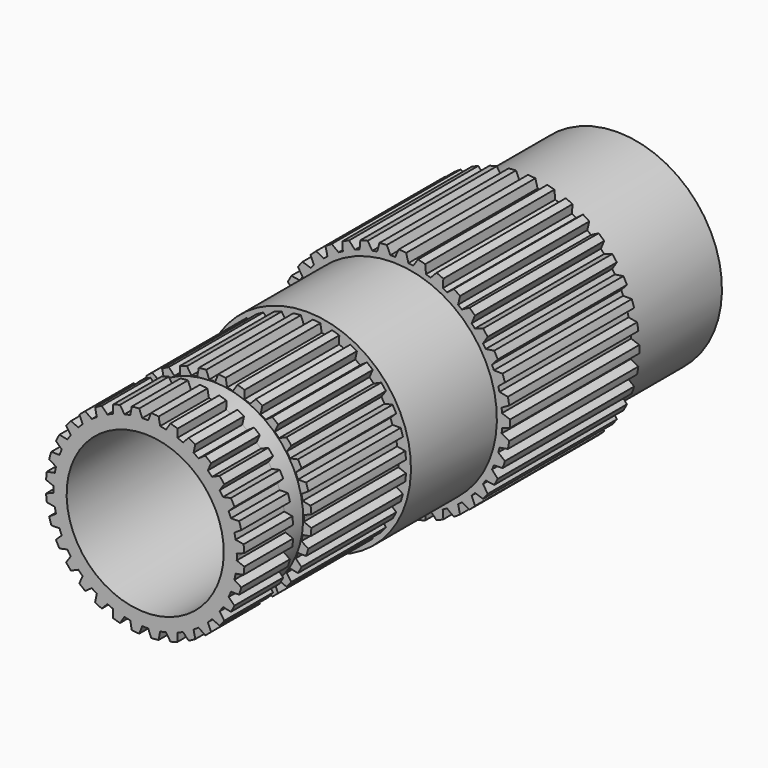
from build123d import *

# Parameters (mm, degrees)
F3_DEPTH = 42.545
F5_DEPTH = 53.2384


with BuildPart() as f1:
    # F0 (on Right) → F1 (revolve)
    with BuildSketch(Plane.YZ):
        Polygon((80.6360800648, 21.7805), (83.8110800648, 23.495), (83.8110800648, 27.4955), (52.3150800648, 27.4955), (52.3150800648, 30.9245), (9.7700800648, 30.9245), (9.7700800648, 27.432), (-18.5255199352, 27.432), (-18.5255199352, 26.162), (-49.6913199352, 26.162), (-49.6913199352, 23.9649), (-55.7111199352, 23.9649), (-55.7111199352, 26.162), (-71.7639199352, 26.162), (-71.7639199352, 20.701), (-5.0889199352, 20.701), (-5.0889199352, 18.161), (10.7860800648, 18.161), (10.7860800648, 20.701), (20.3110800648, 20.701), (20.3110800648, 17.4625), (56.7706339061, 17.4625), (62.2210800648, 21.7805), align=None)
    revolve(axis=Axis((0, 41.9055400324, 0), (0, 1, 0)))

    # F2 (on face) → F3 (cut, through all)
    with BuildSketch(Plane(origin=(0, 52.3150800648, 0), x_dir=(-1, 0, 0), z_dir=(0, 1, 0))):
        with BuildLine():
            ThreePointArc((-0.635, 28.8220057595), (-0.317519259, 28.8272513868), (0, 28.829))
            Line((0, 28.829), (0, 30.9245))
            ThreePointArc((0, 30.9245), (-0.7876555313, 30.914467471), (-1.5748, 30.8843763934))
            Line((-1.5748, 30.8843763934), (-0.635, 28.8220057595))
        make_face()
        with BuildLine():
            Line((0, 30.9245), (0, 28.829))
            ThreePointArc((0, 28.829), (0.317519259, 28.8272513868), (0.635, 28.8220057595))
            Line((0.635, 28.8220057595), (0.635, 30.9179798054))
            ThreePointArc((0.635, 30.9179798054), (0.3175167369, 30.9228699084), (0, 30.9245))
        make_face()
        with BuildLine():
            Line((0.635, 30.9179798054), (0.635, 28.8220057595))
            Line((0.635, 28.8220057595), (1.5748, 30.8843763934))
            ThreePointArc((1.5748, 30.8843763934), (1.1050277405, 30.9047506695), (0.635, 30.9179798054))
        make_face()
        with BuildLine():
            Line((3.530079498, 30.722357315), (4.1176068014, 28.5334287324))
            ThreePointArc((4.1176068014, 28.5334287324), (4.7450974432, 28.4358100158), (5.3702856567, 28.3243936028))
            Line((5.3702856567, 28.3243936028), (6.6367230591, 30.2039501934))
            ThreePointArc((6.6367230591, 30.2039501934), (5.0900054071, 30.5027301271), (3.530079498, 30.722357315))
        make_face()
        with BuildLine():
            Line((8.5386676294, 29.7223124162), (8.757896023, 27.4665341507))
            ThreePointArc((8.757896023, 27.4665341507), (9.3607609977, 27.266965261), (9.95908392, 27.0541658248))
            Line((9.95908392, 27.0541658248), (11.5176136139, 28.699638968))
            ThreePointArc((11.5176136139, 28.699638968), (10.0411687354, 29.248925291), (8.5386676294, 29.7223124162))
        make_face()
        with BuildLine():
            Line((13.3143431666, 27.9115203149), (13.1592926713, 25.6504241172))
            ThreePointArc((13.1592926713, 25.6504241172), (13.7210873939, 25.3543487735), (14.2762243353, 25.045970928))
            Line((14.2762243353, 25.045970928), (16.0843336934, 26.4124764058))
            ThreePointArc((16.0843336934, 26.4124764058), (14.718435156, 27.1972860192), (13.3143431666, 27.9115203149))
        make_face()
        with BuildLine():
            Line((17.7268381301, 25.3393746994), (17.2017381192, 23.1346373794))
            ThreePointArc((17.2017381192, 23.1346373794), (17.7071382941, 22.7501317454), (18.2039465662, 22.3545872343))
            Line((18.2039465662, 22.3545872343), (20.2123150785, 23.4048503395))
            ThreePointArc((20.2123150785, 23.4048503395), (18.9942210336, 24.4037756828), (17.7268381301, 25.3393746994))
        make_face()
        with BuildLine():
            Line((21.6557911599, 22.0760369969), (20.7749649928, 19.9877980415))
            ThreePointArc((20.7749649928, 19.9877980415), (21.2101846208, 19.5253504284), (21.6351125888, 19.0534286749))
            Line((21.6351125888, 19.0534286749), (23.7889571979, 19.7588009679))
            ThreePointArc((23.7889571979, 19.7588009679), (22.7518940756, 20.9445939617), (21.6557911599, 22.0760369969))
        make_face()
        with BuildLine():
            Line((24.9940306592, 18.2105225531), (23.7815049777, 16.2957436772))
            ThreePointArc((23.7815049777, 16.2957436772), (24.1346724018, 15.7679684505), (24.4761291385, 15.2325422498))
            Line((24.4761291385, 15.2325422498), (26.716698578, 15.5737830132))
            ThreePointArc((26.716698578, 15.5737830132), (25.888954757, 16.9140983159), (24.9940306592, 18.2105225531))
        make_face()
        with BuildLine():
            Line((27.6504981567, 13.8482725253), (26.1393475006, 12.1591839053))
            ThreePointArc((26.1393475006, 12.1591839053), (26.4008292341, 11.5804773973), (26.6495006899, 10.9961517805))
            Line((26.6495006899, 10.9961517805), (28.9156780662, 10.9639528557))
            ThreePointArc((28.9156780662, 10.9639528557), (28.3198322401, 12.4222301597), (27.6504981567, 13.8482725253))
        make_face()
        with BuildLine():
            Line((29.552732144, 9.1082777228), (27.7841767638, 7.6909532931))
            ThreePointArc((27.7841767638, 7.6909532931), (27.9468402668, 7.0771011088), (28.0959433325, 6.4598149554))
            Line((28.0959433325, 6.4598149554), (30.3259132343, 6.0550546452))
            ThreePointArc((30.3259132343, 6.0550546452), (29.978218524, 7.5915159471), (29.552732144, 9.1082777228))
        make_face()
        with BuildLine():
            Line((30.6488446366, 4.1198328475), (28.6711261129, 3.0129335239))
            ThreePointArc((28.6711261129, 3.0129335239), (28.7305343489, 2.3806799506), (28.7760018816, 1.7472712178))
            Line((28.7760018816, 1.7472712178), (30.9089365431, 0.9809903283))
            ThreePointArc((30.9089365431, 0.9809903283), (30.818877154, 2.5537249691), (30.6488446366, 4.1198328475))
        make_face()
        with BuildLine():
            Line((30.9089365431, -0.9809903283), (28.7760018816, -1.7472712178))
            ThreePointArc((28.7760018816, -1.7472712178), (28.7305343489, -2.3806799506), (28.6711261129, -3.0129335239))
            Line((28.6711261129, -3.0129335239), (30.6488446366, -4.1198328475))
            ThreePointArc((30.6488446366, -4.1198328475), (30.818877154, -2.5537249691), (30.9089365431, -0.9809903283))
        make_face()
        with BuildLine():
            Line((30.3259132343, -6.0550546452), (28.0959433325, -6.4598149554))
            ThreePointArc((28.0959433325, -6.4598149554), (27.9468402668, -7.0771011088), (27.7841767638, -7.6909532931))
            Line((27.7841767638, -7.6909532931), (29.552732144, -9.1082777228))
            ThreePointArc((29.552732144, -9.1082777228), (29.978218524, -7.5915159471), (30.3259132343, -6.0550546452))
        make_face()
        with BuildLine():
            Line((28.9156780662, -10.9639528557), (26.6495006899, -10.9961517805))
            ThreePointArc((26.6495006899, -10.9961517805), (26.4008292341, -11.5804773973), (26.1393475006, -12.1591839053))
            Line((26.1393475006, -12.1591839053), (27.6504981567, -13.8482725253))
            ThreePointArc((27.6504981567, -13.8482725253), (28.3198322401, -12.4222301597), (28.9156780662, -10.9639528557))
        make_face()
        with BuildLine():
            Line((26.716698578, -15.5737830132), (24.4761291385, -15.2325422498))
            ThreePointArc((24.4761291385, -15.2325422498), (24.1346724018, -15.7679684505), (23.7815049777, -16.2957436772))
            Line((23.7815049777, -16.2957436772), (24.9940306592, -18.2105225531))
            ThreePointArc((24.9940306592, -18.2105225531), (25.888954757, -16.9140983159), (26.716698578, -15.5737830132))
        make_face()
        with BuildLine():
            Line((23.7889571979, -19.7588009679), (21.6351125888, -19.0534286749))
            ThreePointArc((21.6351125888, -19.0534286749), (21.2101846208, -19.5253504284), (20.7749649928, -19.9877980415))
            Line((20.7749649928, -19.9877980415), (21.6557911599, -22.0760369969))
            ThreePointArc((21.6557911599, -22.0760369969), (22.7518940756, -20.9445939617), (23.7889571979, -19.7588009679))
        make_face()
        with BuildLine():
            Line((20.2123150785, -23.4048503395), (18.2039465662, -22.3545872343))
            ThreePointArc((18.2039465662, -22.3545872343), (17.7071382941, -22.7501317454), (17.2017381192, -23.1346373794))
            Line((17.2017381192, -23.1346373794), (17.7268381301, -25.3393746994))
            ThreePointArc((17.7268381301, -25.3393746994), (18.9942210336, -24.4037756828), (20.2123150785, -23.4048503395))
        make_face()
        with BuildLine():
            Line((16.0843336934, -26.4124764058), (14.2762243353, -25.045970928))
            ThreePointArc((14.2762243353, -25.045970928), (13.7210873939, -25.3543487735), (13.1592926713, -25.6504241172))
            Line((13.1592926713, -25.6504241172), (13.3143431666, -27.9115203149))
            ThreePointArc((13.3143431666, -27.9115203149), (14.718435156, -27.1972860192), (16.0843336934, -26.4124764058))
        make_face()
        with BuildLine():
            Line((11.5176136139, -28.699638968), (9.95908392, -27.0541658248))
            ThreePointArc((9.95908392, -27.0541658248), (9.3607609977, -27.266965261), (8.757896023, -27.4665341507))
            Line((8.757896023, -27.4665341507), (8.5386676294, -29.7223124162))
            ThreePointArc((8.5386676294, -29.7223124162), (10.0411687354, -29.248925291), (11.5176136139, -28.699638968))
        make_face()
        with BuildLine():
            Line((6.6367230591, -30.2039501934), (5.3702856567, -28.3243936028))
            ThreePointArc((5.3702856567, -28.3243936028), (4.7450974432, -28.4358100158), (4.1176068014, -28.5334287324))
            Line((4.1176068014, -28.5334287324), (3.530079498, -30.722357315))
            ThreePointArc((3.530079498, -30.722357315), (5.0900054071, -30.5027301271), (6.6367230591, -30.2039501934))
        make_face()
        with BuildLine():
            ThreePointArc((0.635, -28.8220057595), (0, -28.829), (-0.635, -28.8220057595))
            Line((-0.635, -28.8220057595), (-1.5748, -30.8843763934))
            ThreePointArc((-1.5748, -30.8843763934), (0, -30.9245), (1.5748, -30.8843763934))
            Line((1.5748, -30.8843763934), (0.635, -28.8220057595))
        make_face()
        with BuildLine():
            ThreePointArc((-4.1176068014, -28.5334287324), (-4.7450974432, -28.4358100158), (-5.3702856567, -28.3243936028))
            Line((-5.3702856567, -28.3243936028), (-6.6367230591, -30.2039501934))
            ThreePointArc((-6.6367230591, -30.2039501934), (-5.0900054071, -30.5027301271), (-3.530079498, -30.722357315))
            Line((-3.530079498, -30.722357315), (-4.1176068014, -28.5334287324))
        make_face()
        with BuildLine():
            ThreePointArc((-8.757896023, -27.4665341507), (-9.3607609977, -27.266965261), (-9.95908392, -27.0541658248))
            Line((-9.95908392, -27.0541658248), (-11.5176136139, -28.699638968))
            ThreePointArc((-11.5176136139, -28.699638968), (-10.0411687354, -29.248925291), (-8.5386676294, -29.7223124162))
            Line((-8.5386676294, -29.7223124162), (-8.757896023, -27.4665341507))
        make_face()
        with BuildLine():
            ThreePointArc((-13.1592926713, -25.6504241172), (-13.7210873939, -25.3543487735), (-14.2762243353, -25.045970928))
            Line((-14.2762243353, -25.045970928), (-16.0843336934, -26.4124764058))
            ThreePointArc((-16.0843336934, -26.4124764058), (-14.718435156, -27.1972860192), (-13.3143431666, -27.9115203149))
            Line((-13.3143431666, -27.9115203149), (-13.1592926713, -25.6504241172))
        make_face()
        with BuildLine():
            ThreePointArc((-17.2017381192, -23.1346373794), (-17.7071382941, -22.7501317454), (-18.2039465662, -22.3545872343))
            Line((-18.2039465662, -22.3545872343), (-20.2123150785, -23.4048503395))
            ThreePointArc((-20.2123150785, -23.4048503395), (-18.9942210336, -24.4037756828), (-17.7268381301, -25.3393746994))
            Line((-17.7268381301, -25.3393746994), (-17.2017381192, -23.1346373794))
        make_face()
        with BuildLine():
            ThreePointArc((-20.7749649928, -19.9877980415), (-21.2101846208, -19.5253504284), (-21.6351125888, -19.0534286749))
            Line((-21.6351125888, -19.0534286749), (-23.7889571979, -19.7588009679))
            ThreePointArc((-23.7889571979, -19.7588009679), (-22.7518940756, -20.9445939617), (-21.6557911599, -22.0760369969))
            Line((-21.6557911599, -22.0760369969), (-20.7749649928, -19.9877980415))
        make_face()
        with BuildLine():
            ThreePointArc((-23.7815049777, -16.2957436772), (-24.1346724018, -15.7679684505), (-24.4761291385, -15.2325422498))
            Line((-24.4761291385, -15.2325422498), (-26.716698578, -15.5737830132))
            ThreePointArc((-26.716698578, -15.5737830132), (-25.888954757, -16.9140983159), (-24.9940306592, -18.2105225531))
            Line((-24.9940306592, -18.2105225531), (-23.7815049777, -16.2957436772))
        make_face()
        with BuildLine():
            ThreePointArc((-26.1393475006, -12.1591839053), (-26.4008292341, -11.5804773973), (-26.6495006899, -10.9961517805))
            Line((-26.6495006899, -10.9961517805), (-28.9156780662, -10.9639528557))
            ThreePointArc((-28.9156780662, -10.9639528557), (-28.3198322401, -12.4222301597), (-27.6504981567, -13.8482725253))
            Line((-27.6504981567, -13.8482725253), (-26.1393475006, -12.1591839053))
        make_face()
        with BuildLine():
            ThreePointArc((-27.7841767638, -7.6909532931), (-27.9468402668, -7.0771011088), (-28.0959433325, -6.4598149554))
            Line((-28.0959433325, -6.4598149554), (-30.3259132343, -6.0550546452))
            ThreePointArc((-30.3259132343, -6.0550546452), (-29.978218524, -7.5915159471), (-29.552732144, -9.1082777228))
            Line((-29.552732144, -9.1082777228), (-27.7841767638, -7.6909532931))
        make_face()
        with BuildLine():
            ThreePointArc((-28.6711261129, -3.0129335239), (-28.7305343489, -2.3806799506), (-28.7760018816, -1.7472712178))
            Line((-28.7760018816, -1.7472712178), (-30.9089365431, -0.9809903283))
            ThreePointArc((-30.9089365431, -0.9809903283), (-30.818877154, -2.5537249691), (-30.6488446366, -4.1198328475))
            Line((-30.6488446366, -4.1198328475), (-28.6711261129, -3.0129335239))
        make_face()
        with BuildLine():
            ThreePointArc((-28.7760018816, 1.7472712178), (-28.7305343489, 2.3806799506), (-28.6711261129, 3.0129335239))
            Line((-28.6711261129, 3.0129335239), (-30.6488446366, 4.1198328475))
            ThreePointArc((-30.6488446366, 4.1198328475), (-30.818877154, 2.5537249691), (-30.9089365431, 0.9809903283))
            Line((-30.9089365431, 0.9809903283), (-28.7760018816, 1.7472712178))
        make_face()
        with BuildLine():
            ThreePointArc((-28.0959433325, 6.4598149554), (-27.9468402668, 7.0771011088), (-27.7841767638, 7.6909532931))
            Line((-27.7841767638, 7.6909532931), (-29.552732144, 9.1082777228))
            ThreePointArc((-29.552732144, 9.1082777228), (-29.978218524, 7.5915159471), (-30.3259132343, 6.0550546452))
            Line((-30.3259132343, 6.0550546452), (-28.0959433325, 6.4598149554))
        make_face()
        with BuildLine():
            ThreePointArc((-26.6495006899, 10.9961517805), (-26.4008292341, 11.5804773973), (-26.1393475006, 12.1591839053))
            Line((-26.1393475006, 12.1591839053), (-27.6504981567, 13.8482725253))
            ThreePointArc((-27.6504981567, 13.8482725253), (-28.3198322401, 12.4222301597), (-28.9156780662, 10.9639528557))
            Line((-28.9156780662, 10.9639528557), (-26.6495006899, 10.9961517805))
        make_face()
        with BuildLine():
            ThreePointArc((-24.4761291385, 15.2325422498), (-24.1346724018, 15.7679684505), (-23.7815049777, 16.2957436772))
            Line((-23.7815049777, 16.2957436772), (-24.9940306592, 18.2105225531))
            ThreePointArc((-24.9940306592, 18.2105225531), (-25.888954757, 16.9140983159), (-26.716698578, 15.5737830132))
            Line((-26.716698578, 15.5737830132), (-24.4761291385, 15.2325422498))
        make_face()
        with BuildLine():
            ThreePointArc((-21.6351125888, 19.0534286749), (-21.2101846208, 19.5253504284), (-20.7749649928, 19.9877980415))
            Line((-20.7749649928, 19.9877980415), (-21.6557911599, 22.0760369969))
            ThreePointArc((-21.6557911599, 22.0760369969), (-22.7518940756, 20.9445939617), (-23.7889571979, 19.7588009679))
            Line((-23.7889571979, 19.7588009679), (-21.6351125888, 19.0534286749))
        make_face()
        with BuildLine():
            ThreePointArc((-18.2039465662, 22.3545872343), (-17.7071382941, 22.7501317454), (-17.2017381192, 23.1346373794))
            Line((-17.2017381192, 23.1346373794), (-17.7268381301, 25.3393746994))
            ThreePointArc((-17.7268381301, 25.3393746994), (-18.9942210336, 24.4037756828), (-20.2123150785, 23.4048503395))
            Line((-20.2123150785, 23.4048503395), (-18.2039465662, 22.3545872343))
        make_face()
        with BuildLine():
            ThreePointArc((-14.2762243353, 25.045970928), (-13.7210873939, 25.3543487735), (-13.1592926713, 25.6504241172))
            Line((-13.1592926713, 25.6504241172), (-13.3143431666, 27.9115203149))
            ThreePointArc((-13.3143431666, 27.9115203149), (-14.718435156, 27.1972860192), (-16.0843336934, 26.4124764058))
            Line((-16.0843336934, 26.4124764058), (-14.2762243353, 25.045970928))
        make_face()
        with BuildLine():
            ThreePointArc((-9.95908392, 27.0541658248), (-9.3607609977, 27.266965261), (-8.757896023, 27.4665341507))
            Line((-8.757896023, 27.4665341507), (-8.5386676294, 29.7223124162))
            ThreePointArc((-8.5386676294, 29.7223124162), (-10.0411687354, 29.248925291), (-11.5176136139, 28.699638968))
            Line((-11.5176136139, 28.699638968), (-9.95908392, 27.0541658248))
        make_face()
        with BuildLine():
            ThreePointArc((-5.3702856567, 28.3243936028), (-4.7450974432, 28.4358100158), (-4.1176068014, 28.5334287324))
            Line((-4.1176068014, 28.5334287324), (-3.530079498, 30.722357315))
            ThreePointArc((-3.530079498, 30.722357315), (-5.0900054071, 30.5027301271), (-6.6367230591, 30.2039501934))
            Line((-6.6367230591, 30.2039501934), (-5.3702856567, 28.3243936028))
        make_face()
    extrude(amount=-F3_DEPTH, mode=Mode.SUBTRACT)

    # F4 (on face) → F5 (cut, through all)
    with BuildSketch(Plane.XZ.offset(71.7639199352)):
        with BuildLine():
            ThreePointArc((-0.7874, 24.1171495256), (-0.3937524269, 24.1267871675), (0, 24.13))
            Line((0, 24.13), (0, 26.162))
            ThreePointArc((0, 26.162), (-0.7877571936, 26.1501373343), (-1.5748, 26.1145600951))
            Line((-1.5748, 26.1145600951), (-0.7874, 24.1171495256))
        make_face()
        with BuildLine():
            ThreePointArc((0, 24.13), (0.3937524269, 24.1267871675), (0.7874, 24.1171495256))
            Line((0.7874, 24.1171495256), (0.7874, 26.1501480921))
            ThreePointArc((0.7874, 26.1501480921), (0.3937445961, 26.1590368552), (0, 26.162))
            Line((0, 26.162), (0, 24.13))
        make_face()
        with BuildLine():
            Line((0.7874, 26.1501480921), (0.7874, 24.1171495256))
            Line((0.7874, 24.1171495256), (1.5748, 26.1145600951))
            ThreePointArc((1.5748, 26.1145600951), (1.1812340312, 26.1353195918), (0.7874, 26.1501480921))
        make_face()
        with BuildLine():
            ThreePointArc((3.9327521373, 23.8073593795), (4.7075294702, 23.6663488161), (5.4772927968, 23.5001311404))
            Line((5.4772927968, 23.5001311404), (6.6392385978, 25.3055479064))
            ThreePointArc((6.6392385978, 25.3055479064), (5.1039530046, 25.6593045059), (3.5501572787, 25.9200043846))
            Line((3.5501572787, 25.9200043846), (3.9327521373, 23.8073593795))
        make_face()
        with BuildLine():
            ThreePointArc((8.5017708154, 22.5826657639), (9.234151223, 22.2932131195), (9.9566963032, 21.9800158946))
            Line((9.9566963032, 21.9800158946), (11.4485349797, 23.5240577031))
            ThreePointArc((11.4485349797, 23.5240577031), (10.0117639575, 24.1705363296), (8.5386840041, 24.7293574417))
            Line((8.5386840041, 24.7293574417), (8.5017708154, 22.5826657639))
        make_face()
        with BuildLine():
            ThreePointArc((12.744071209, 20.4901329674), (13.4059097228, 20.0633617449), (14.0534695544, 19.6152209644))
            Line((14.0534695544, 19.6152209644), (15.8178705827, 20.8385511548))
            ThreePointArc((15.8178705827, 20.8385511548), (14.5348284363, 21.7529079971), (13.1990738918, 22.5883751607))
            Line((13.1990738918, 22.5883751607), (12.744071209, 20.4901329674))
        make_face()
        with BuildLine():
            ThreePointArc((16.4966240929, 17.6101758519), (17.06248663, 17.06248663), (17.6101758519, 16.4966240929))
            Line((17.6101758519, 16.4966240929), (19.57933429, 17.3522307719))
            ThreePointArc((19.57933429, 17.3522307719), (18.4993276094, 18.4993276094), (17.3522307719, 19.57933429))
            Line((17.3522307719, 19.57933429), (16.4966240929, 17.6101758519))
        make_face()
        with BuildLine():
            ThreePointArc((19.6152209644, 14.0534695544), (20.0633617449, 13.4059097228), (20.4901329674, 12.744071209))
            Line((20.4901329674, 12.744071209), (22.5883751607, 13.1990738918))
            ThreePointArc((22.5883751607, 13.1990738918), (21.7529079971, 14.5348284363), (20.8385511548, 15.8178705827))
            Line((20.8385511548, 15.8178705827), (19.6152209644, 14.0534695544))
        make_face()
        with BuildLine():
            ThreePointArc((21.9800158946, 9.9566963032), (22.2932131195, 9.234151223), (22.5826657639, 8.5017708154))
            Line((22.5826657639, 8.5017708154), (24.7293574417, 8.5386840041))
            ThreePointArc((24.7293574417, 8.5386840041), (24.1705363296, 10.0117639575), (23.5240577031, 11.4485349797))
            Line((23.5240577031, 11.4485349797), (21.9800158946, 9.9566963032))
        make_face()
        with BuildLine():
            ThreePointArc((23.5001311404, 5.4772927968), (23.6663488161, 4.7075294702), (23.8073593795, 3.9327521373))
            Line((23.8073593795, 3.9327521373), (25.9200043846, 3.5501572787))
            ThreePointArc((25.9200043846, 3.5501572787), (25.6593045059, 5.1039530046), (25.3055479064, 6.6392385978))
            Line((25.3055479064, 6.6392385978), (23.5001311404, 5.4772927968))
        make_face()
        with BuildLine():
            ThreePointArc((24.1171495256, 0.7874), (24.1267871675, 0.3937524269), (24.13, 0))
            ThreePointArc((24.13, 0), (24.1267871675, -0.3937524269), (24.1171495256, -0.7874))
            Line((24.1171495256, -0.7874), (26.1145600951, -1.5748))
            ThreePointArc((26.1145600951, -1.5748), (26.1501373343, -0.7877571936), (26.162, 0))
            ThreePointArc((26.162, 0), (26.1501373343, 0.7877571936), (26.1145600951, 1.5748))
            Line((26.1145600951, 1.5748), (24.1171495256, 0.7874))
        make_face()
        with BuildLine():
            Line((25.9200043846, -3.5501572787), (23.8073593795, -3.9327521373))
            ThreePointArc((23.8073593795, -3.9327521373), (23.6663488161, -4.7075294702), (23.5001311404, -5.4772927968))
            Line((23.5001311404, -5.4772927968), (25.3055479064, -6.6392385978))
            ThreePointArc((25.3055479064, -6.6392385978), (25.6593045059, -5.1039530046), (25.9200043846, -3.5501572787))
        make_face()
        with BuildLine():
            Line((24.7293574417, -8.5386840041), (22.5826657639, -8.5017708154))
            ThreePointArc((22.5826657639, -8.5017708154), (22.2932131195, -9.234151223), (21.9800158946, -9.9566963032))
            Line((21.9800158946, -9.9566963032), (23.5240577031, -11.4485349797))
            ThreePointArc((23.5240577031, -11.4485349797), (24.1705363296, -10.0117639575), (24.7293574417, -8.5386840041))
        make_face()
        with BuildLine():
            Line((22.5883751607, -13.1990738918), (20.4901329674, -12.744071209))
            ThreePointArc((20.4901329674, -12.744071209), (20.0633617449, -13.4059097228), (19.6152209644, -14.0534695544))
            Line((19.6152209644, -14.0534695544), (20.8385511548, -15.8178705827))
            ThreePointArc((20.8385511548, -15.8178705827), (21.7529079971, -14.5348284363), (22.5883751607, -13.1990738918))
        make_face()
        with BuildLine():
            Line((19.57933429, -17.3522307719), (17.6101758519, -16.4966240929))
            ThreePointArc((17.6101758519, -16.4966240929), (17.06248663, -17.06248663), (16.4966240929, -17.6101758519))
            Line((16.4966240929, -17.6101758519), (17.3522307719, -19.57933429))
            ThreePointArc((17.3522307719, -19.57933429), (18.4993276094, -18.4993276094), (19.57933429, -17.3522307719))
        make_face()
        with BuildLine():
            Line((15.8178705827, -20.8385511548), (14.0534695544, -19.6152209644))
            ThreePointArc((14.0534695544, -19.6152209644), (13.4059097228, -20.0633617449), (12.744071209, -20.4901329674))
            Line((12.744071209, -20.4901329674), (13.1990738918, -22.5883751607))
            ThreePointArc((13.1990738918, -22.5883751607), (14.5348284363, -21.7529079971), (15.8178705827, -20.8385511548))
        make_face()
        with BuildLine():
            Line((11.4485349797, -23.5240577031), (9.9566963032, -21.9800158946))
            ThreePointArc((9.9566963032, -21.9800158946), (9.234151223, -22.2932131195), (8.5017708154, -22.5826657639))
            Line((8.5017708154, -22.5826657639), (8.5386840041, -24.7293574417))
            ThreePointArc((8.5386840041, -24.7293574417), (10.0117639575, -24.1705363296), (11.4485349797, -23.5240577031))
        make_face()
        with BuildLine():
            Line((6.6392385978, -25.3055479064), (5.4772927968, -23.5001311404))
            ThreePointArc((5.4772927968, -23.5001311404), (4.7075294702, -23.6663488161), (3.9327521373, -23.8073593795))
            Line((3.9327521373, -23.8073593795), (3.5501572787, -25.9200043846))
            ThreePointArc((3.5501572787, -25.9200043846), (5.1039530046, -25.6593045059), (6.6392385978, -25.3055479064))
        make_face()
        with BuildLine():
            Line((1.5748, -26.1145600951), (0.7874, -24.1171495256))
            ThreePointArc((0.7874, -24.1171495256), (0, -24.13), (-0.7874, -24.1171495256))
            Line((-0.7874, -24.1171495256), (-1.5748, -26.1145600951))
            ThreePointArc((-1.5748, -26.1145600951), (0, -26.162), (1.5748, -26.1145600951))
        make_face()
        with BuildLine():
            Line((-3.5501572787, -25.9200043846), (-3.9327521373, -23.8073593795))
            ThreePointArc((-3.9327521373, -23.8073593795), (-4.7075294702, -23.6663488161), (-5.4772927968, -23.5001311404))
            Line((-5.4772927968, -23.5001311404), (-6.6392385978, -25.3055479064))
            ThreePointArc((-6.6392385978, -25.3055479064), (-5.1039530046, -25.6593045059), (-3.5501572787, -25.9200043846))
        make_face()
        with BuildLine():
            Line((-8.5386840041, -24.7293574417), (-8.5017708154, -22.5826657639))
            ThreePointArc((-8.5017708154, -22.5826657639), (-9.234151223, -22.2932131195), (-9.9566963032, -21.9800158946))
            Line((-9.9566963032, -21.9800158946), (-11.4485349797, -23.5240577031))
            ThreePointArc((-11.4485349797, -23.5240577031), (-10.0117639575, -24.1705363296), (-8.5386840041, -24.7293574417))
        make_face()
        with BuildLine():
            Line((-13.1990738918, -22.5883751607), (-12.744071209, -20.4901329674))
            ThreePointArc((-12.744071209, -20.4901329674), (-13.4059097228, -20.0633617449), (-14.0534695544, -19.6152209644))
            Line((-14.0534695544, -19.6152209644), (-15.8178705827, -20.8385511548))
            ThreePointArc((-15.8178705827, -20.8385511548), (-14.5348284363, -21.7529079971), (-13.1990738918, -22.5883751607))
        make_face()
        with BuildLine():
            Line((-20.8385511548, -15.8178705827), (-19.6152209644, -14.0534695544))
            ThreePointArc((-19.6152209644, -14.0534695544), (-20.0633617449, -13.4059097228), (-20.4901329674, -12.744071209))
            Line((-20.4901329674, -12.744071209), (-22.5883751607, -13.1990738918))
            ThreePointArc((-22.5883751607, -13.1990738918), (-21.7529079971, -14.5348284363), (-20.8385511548, -15.8178705827))
        make_face()
        with BuildLine():
            Line((-23.5240577031, -11.4485349797), (-21.9800158946, -9.9566963032))
            ThreePointArc((-21.9800158946, -9.9566963032), (-22.2932131195, -9.234151223), (-22.5826657639, -8.5017708154))
            Line((-22.5826657639, -8.5017708154), (-24.7293574417, -8.5386840041))
            ThreePointArc((-24.7293574417, -8.5386840041), (-24.1705363296, -10.0117639575), (-23.5240577031, -11.4485349797))
        make_face()
        with BuildLine():
            Line((-25.3055479064, -6.6392385978), (-23.5001311404, -5.4772927968))
            ThreePointArc((-23.5001311404, -5.4772927968), (-23.6663488161, -4.7075294702), (-23.8073593795, -3.9327521373))
            Line((-23.8073593795, -3.9327521373), (-25.9200043846, -3.5501572787))
            ThreePointArc((-25.9200043846, -3.5501572787), (-25.6593045059, -5.1039530046), (-25.3055479064, -6.6392385978))
        make_face()
        with BuildLine():
            Line((-26.1145600951, -1.5748), (-24.1171495256, -0.7874))
            ThreePointArc((-24.1171495256, -0.7874), (-24.13, 0), (-24.1171495256, 0.7874))
            Line((-24.1171495256, 0.7874), (-26.1145600951, 1.5748))
            ThreePointArc((-26.1145600951, 1.5748), (-26.162, 0), (-26.1145600951, -1.5748))
        make_face()
        with BuildLine():
            ThreePointArc((-23.8073593795, 3.9327521373), (-23.6663488161, 4.7075294702), (-23.5001311404, 5.4772927968))
            Line((-23.5001311404, 5.4772927968), (-25.3055479064, 6.6392385978))
            ThreePointArc((-25.3055479064, 6.6392385978), (-25.6593045059, 5.1039530046), (-25.9200043846, 3.5501572787))
            Line((-25.9200043846, 3.5501572787), (-23.8073593795, 3.9327521373))
        make_face()
        with BuildLine():
            ThreePointArc((-22.5826657639, 8.5017708154), (-22.2932131195, 9.234151223), (-21.9800158946, 9.9566963032))
            Line((-21.9800158946, 9.9566963032), (-23.5240577031, 11.4485349797))
            ThreePointArc((-23.5240577031, 11.4485349797), (-24.1705363296, 10.0117639575), (-24.7293574417, 8.5386840041))
            Line((-24.7293574417, 8.5386840041), (-22.5826657639, 8.5017708154))
        make_face()
        with BuildLine():
            ThreePointArc((-20.4901329674, 12.744071209), (-20.0633617449, 13.4059097228), (-19.6152209644, 14.0534695544))
            Line((-19.6152209644, 14.0534695544), (-20.8385511548, 15.8178705827))
            ThreePointArc((-20.8385511548, 15.8178705827), (-21.7529079971, 14.5348284363), (-22.5883751607, 13.1990738918))
            Line((-22.5883751607, 13.1990738918), (-20.4901329674, 12.744071209))
        make_face()
        with BuildLine():
            ThreePointArc((-17.6101758519, 16.4966240929), (-17.06248663, 17.06248663), (-16.4966240929, 17.6101758519))
            Line((-16.4966240929, 17.6101758519), (-17.3522307719, 19.57933429))
            ThreePointArc((-17.3522307719, 19.57933429), (-18.4993276094, 18.4993276094), (-19.57933429, 17.3522307719))
            Line((-19.57933429, 17.3522307719), (-17.6101758519, 16.4966240929))
        make_face()
        with BuildLine():
            ThreePointArc((-14.0534695544, 19.6152209644), (-13.4059097228, 20.0633617449), (-12.744071209, 20.4901329674))
            Line((-12.744071209, 20.4901329674), (-13.1990738918, 22.5883751607))
            ThreePointArc((-13.1990738918, 22.5883751607), (-14.5348284363, 21.7529079971), (-15.8178705827, 20.8385511548))
            Line((-15.8178705827, 20.8385511548), (-14.0534695544, 19.6152209644))
        make_face()
        with BuildLine():
            ThreePointArc((-9.9566963032, 21.9800158946), (-9.234151223, 22.2932131195), (-8.5017708154, 22.5826657639))
            Line((-8.5017708154, 22.5826657639), (-8.5386840041, 24.7293574417))
            ThreePointArc((-8.5386840041, 24.7293574417), (-10.0117639575, 24.1705363296), (-11.4485349797, 23.5240577031))
            Line((-11.4485349797, 23.5240577031), (-9.9566963032, 21.9800158946))
        make_face()
        with BuildLine():
            ThreePointArc((-5.4772927968, 23.5001311404), (-4.7075294702, 23.6663488161), (-3.9327521373, 23.8073593795))
            Line((-3.9327521373, 23.8073593795), (-3.5501572787, 25.9200043846))
            ThreePointArc((-3.5501572787, 25.9200043846), (-5.1039530046, 25.6593045059), (-6.6392385978, 25.3055479064))
            Line((-6.6392385978, 25.3055479064), (-5.4772927968, 23.5001311404))
        make_face()
        with BuildLine():
            Line((-17.3522307719, -19.57933429), (-16.4966240929, -17.6101758519))
            ThreePointArc((-16.4966240929, -17.6101758519), (-17.06248663, -17.06248663), (-17.6101758519, -16.4966240929))
            Line((-17.6101758519, -16.4966240929), (-19.57933429, -17.3522307719))
            ThreePointArc((-19.57933429, -17.3522307719), (-18.4993276094, -18.4993276094), (-17.3522307719, -19.57933429))
        make_face()
    extrude(amount=-F5_DEPTH, mode=Mode.SUBTRACT)


solid = f1.part
